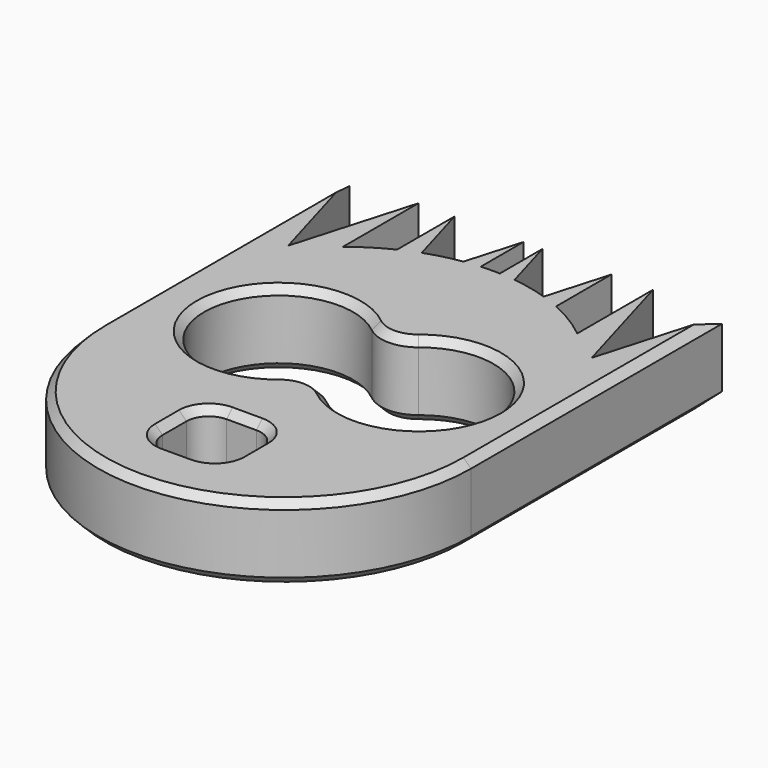
from build123d import *

# Parameters (mm, degrees)
F1_DEPTH = 10
F3_DEPTH = 25
F4_R     = 5
F5_W     = 10
F5_H     = 10
F6_DEPTH = 25
F7_R     = 3
F8_SIZE  = 1


with BuildPart() as f1:
    # F0 (on Top) → F1 (new body)
    with BuildSketch(Plane.XY):
        Polygon((-10.9047358856, 5), (-1.6377953812, 5), (-6.2712656334, 21.0524187982), align=None)
        Polygon((0.893718563, 5), (10.1606590673, 5), (5.5271888152, 21.0524187982), align=None)
        with BuildLine():
            ThreePointArc((-25, -5), (0, -30), (25, -5))
            Line((25, -5), (-25, -5))
        make_face()
        with BuildLine():
            ThreePointArc((7.7540047355, 28.767107745), (8.969264738, 28.3356441964), (10.1606590673, 27.842088506))
            Line((10.1606590673, 27.842088506), (10.1606590673, 37.1048375964))
            Line((10.1606590673, 37.1048375964), (7.7540047355, 28.767107745))
        make_face()
        with BuildLine():
            Line((0.893718563, 37.1048375964), (0.893718563, 29.9840202355))
            ThreePointArc((0.893718563, 29.9840202355), (1.9468556818, 29.9240797815), (2.9965268036, 29.8197668626))
            Line((2.9965268036, 29.8197668626), (0.893718563, 37.1048375964))
        make_face()
        with BuildLine():
            ThreePointArc((-3.7711526138, 29.713931455), (-2.7069683761, 29.8530143486), (-1.6377953812, 29.9462948409))
            Line((-1.6377953812, 29.9462948409), (-1.6377953812, 37.1048375964))
            Line((-1.6377953812, 37.1048375964), (-3.7711526138, 29.713931455))
        make_face()
        with BuildLine():
            Line((-10.9047358856, 37.1048375964), (-10.9047358856, 27.4963716022))
            ThreePointArc((-10.9047358856, 27.4963716022), (-9.6819154679, 28.0490891983), (-8.4311989498, 28.535396412))
            Line((-8.4311989498, 28.535396412), (-10.9047358856, 37.1048375964))
        make_face()
        with BuildLine():
            ThreePointArc((21.1545569723, 18.3223391079), (24.0194080309, 11.9331117001), (25, 5))
            Line((25, 5), (25, 37.1048375964))
            Line((25, 37.1048375964), (20.3665297478, 21.0524187982))
            Line((20.3665297478, 21.0524187982), (21.1545569723, 18.3223391079))
        make_face()
        with BuildLine():
            Line((21.1545569723, 18.3223391079), (25, 5))
            ThreePointArc((25, 5), (24.0194080309, 11.9331117001), (21.1545569723, 18.3223391079))
        make_face()
        with BuildLine():
            ThreePointArc((15.7330594957, 24.4286087743), (18.0294324279, 22.3187634179), (20.0452738513, 19.9394443078))
            Line((20.0452738513, 19.9394443078), (20.3665297478, 21.0524187982))
            Line((20.3665297478, 21.0524187982), (15.7330594957, 37.1048375964))
            Line((15.7330594957, 37.1048375964), (15.7330594957, 24.4286087743))
        make_face()
        with BuildLine():
            Line((2.9965268036, 29.8197668626), (5.5271888152, 21.0524187982))
            Line((5.5271888152, 21.0524187982), (7.7540047355, 28.767107745))
            ThreePointArc((7.7540047355, 28.767107745), (5.4009725881, 29.4096189053), (2.9965268036, 29.8197668626))
        make_face()
        with BuildLine():
            Line((-8.4311989498, 28.535396412), (-6.2712656334, 21.0524187982))
            Line((-6.2712656334, 21.0524187982), (-3.7711526138, 29.713931455))
            ThreePointArc((-3.7711526138, 29.713931455), (-6.1295662271, 29.2369226155), (-8.4311989498, 28.535396412))
        make_face()
        with BuildLine():
            Line((-20.3665297478, 21.0524187982), (-20.0452738513, 19.9394443078))
            ThreePointArc((-20.0452738513, 19.9394443078), (-18.0294324279, 22.3187634179), (-15.7330594957, 24.4286087743))
            Line((-15.7330594957, 24.4286087743), (-15.7330594957, 37.1048375964))
            Line((-15.7330594957, 37.1048375964), (-20.3665297478, 21.0524187982))
        make_face()
        with BuildLine():
            Line((-25, 37.1048375964), (-25, 5))
            ThreePointArc((-25, 5), (-24.0194080309, 11.9331117001), (-21.1545569723, 18.3223391079))
            Line((-21.1545569723, 18.3223391079), (-20.3665297478, 21.0524187982))
            Line((-20.3665297478, 21.0524187982), (-25, 37.1048375964))
        make_face()
        with BuildLine():
            ThreePointArc((-21.1545569723, 18.3223391079), (-24.0194080309, 11.9331117001), (-25, 5))
            Line((-25, 5), (-21.1545569723, 18.3223391079))
        make_face()
        with BuildLine():
            Line((10.1606590673, 5), (15.7330594957, 5))
            Line((15.7330594957, 5), (15.7330594957, 24.4286087743))
            ThreePointArc((15.7330594957, 24.4286087743), (13.0588715525, 26.3182052194), (10.1606590673, 27.842088506))
            Line((10.1606590673, 27.842088506), (10.1606590673, 5))
        make_face()
        with BuildLine():
            Line((-1.6377953812, 5), (0.893718563, 5))
            Line((0.893718563, 5), (0.893718563, 29.9840202355))
            ThreePointArc((0.893718563, 29.9840202355), (-0.3725162805, 29.9972244783), (-1.6377953812, 29.9462948409))
            Line((-1.6377953812, 29.9462948409), (-1.6377953812, 5))
        make_face()
        with BuildLine():
            Line((-15.7330594957, 24.4286087743), (-15.7330594957, 5))
            Line((-15.7330594957, 5), (-10.9047358856, 5))
            Line((-10.9047358856, 5), (-10.9047358856, 27.4963716022))
            ThreePointArc((-10.9047358856, 27.4963716022), (-13.4069320833, 26.1010467066), (-15.7330594957, 24.4286087743))
        make_face()
        with BuildLine():
            ThreePointArc((20.0452738513, 19.9394443078), (20.615777266, 19.1417724391), (21.1545569723, 18.3223391079))
            Line((21.1545569723, 18.3223391079), (20.3665297478, 21.0524187982))
            Line((20.3665297478, 21.0524187982), (20.0452738513, 19.9394443078))
        make_face()
        with BuildLine():
            Line((15.7330594957, 24.4286087743), (15.7330594957, 5))
            Line((15.7330594957, 5), (20.0452738513, 19.9394443078))
            ThreePointArc((20.0452738513, 19.9394443078), (18.0294324279, 22.3187634179), (15.7330594957, 24.4286087743))
        make_face()
        with BuildLine():
            Line((-20.0452738513, 19.9394443078), (-15.7330594957, 5))
            Line((-15.7330594957, 5), (-15.7330594957, 24.4286087743))
            ThreePointArc((-15.7330594957, 24.4286087743), (-18.0294324279, 22.3187634179), (-20.0452738513, 19.9394443078))
        make_face()
        with BuildLine():
            Line((-20.3665297478, 21.0524187982), (-21.1545569723, 18.3223391079))
            ThreePointArc((-21.1545569723, 18.3223391079), (-20.615777266, 19.1417724391), (-20.0452738513, 19.9394443078))
            Line((-20.0452738513, 19.9394443078), (-20.3665297478, 21.0524187982))
        make_face()
        with BuildLine():
            Line((15.7330594957, 5), (25, 5))
            Line((25, 5), (21.1545569723, 18.3223391079))
            ThreePointArc((21.1545569723, 18.3223391079), (20.615777266, 19.1417724391), (20.0452738513, 19.9394443078))
            Line((20.0452738513, 19.9394443078), (15.7330594957, 5))
        make_face()
        with BuildLine():
            Line((5.5271888152, 21.0524187982), (10.1606590673, 5))
            Line((10.1606590673, 5), (10.1606590673, 27.842088506))
            ThreePointArc((10.1606590673, 27.842088506), (8.969264738, 28.3356441964), (7.7540047355, 28.767107745))
            Line((7.7540047355, 28.767107745), (5.5271888152, 21.0524187982))
        make_face()
        with BuildLine():
            Line((0.893718563, 29.9840202355), (0.893718563, 5))
            Line((0.893718563, 5), (5.5271888152, 21.0524187982))
            Line((5.5271888152, 21.0524187982), (2.9965268036, 29.8197668626))
            ThreePointArc((2.9965268036, 29.8197668626), (1.9468556818, 29.9240797815), (0.893718563, 29.9840202355))
        make_face()
        with BuildLine():
            Line((-6.2712656334, 21.0524187982), (-1.6377953812, 5))
            Line((-1.6377953812, 5), (-1.6377953812, 29.9462948409))
            ThreePointArc((-1.6377953812, 29.9462948409), (-2.7069683761, 29.8530143486), (-3.7711526138, 29.713931455))
            Line((-3.7711526138, 29.713931455), (-6.2712656334, 21.0524187982))
        make_face()
        with BuildLine():
            Line((-10.9047358856, 27.4963716022), (-10.9047358856, 5))
            Line((-10.9047358856, 5), (-6.2712656334, 21.0524187982))
            Line((-6.2712656334, 21.0524187982), (-8.4311989498, 28.535396412))
            ThreePointArc((-8.4311989498, 28.535396412), (-9.6819154679, 28.0490891983), (-10.9047358856, 27.4963716022))
        make_face()
        Polygon((25, -5), (25, 5), (15.7330594957, 5), (10.1606590673, 5), (0.893718563, 5), (-1.6377953812, 5), (-10.9047358856, 5), (-15.7330594957, 5), (-25, 5), (-25, -5), align=None)
        with BuildLine():
            Line((-21.1545569723, 18.3223391079), (-25, 5))
            Line((-25, 5), (-15.7330594957, 5))
            Line((-15.7330594957, 5), (-20.0452738513, 19.9394443078))
            ThreePointArc((-20.0452738513, 19.9394443078), (-20.615777266, 19.1417724391), (-21.1545569723, 18.3223391079))
        make_face()
    extrude(amount=F1_DEPTH)

    # F2 (on face) → F3 (cut)
    with BuildSketch(Plane.XY.offset(10)):
        with BuildLine():
            ThreePointArc((0.3781150769, 1.944110059), (0.8106415831, 3.5947742399), (0.9562301539, 5.2949434623))
            ThreePointArc((0.9562301539, 5.2949434623), (0.8106415831, 6.9951126847), (0.3781150769, 8.6457768657))
            ThreePointArc((0.3781150769, 8.6457768657), (-0.2, 5.2949434623), (0.3781150769, 1.944110059))
        make_face()
        with BuildLine():
            ThreePointArc((0.3781150769, 8.6457768657), (0.8106415831, 6.9951126847), (0.9562301539, 5.2949434623))
            ThreePointArc((0.9562301539, 5.2949434623), (0.8106415831, 3.5947742399), (0.3781150769, 1.944110059))
            ThreePointArc((0.3781150769, 1.944110059), (11.5001692224, -4.5594679668), (19.8, 5.2949434623))
            ThreePointArc((19.8, 5.2949434623), (11.5001692224, 15.1493548915), (0.3781150769, 8.6457768657))
        make_face()
        with BuildLine():
            ThreePointArc((0.3781150769, 1.944110059), (-0.2, 5.2949434623), (0.3781150769, 8.6457768657))
            ThreePointArc((0.3781150769, 8.6457768657), (-19.0437698461, 5.2949434623), (0.3781150769, 1.944110059))
        make_face()
    extrude(amount=-F3_DEPTH, mode=Mode.SUBTRACT)

    # F4
    f4_edges = [f1.edges().sort_by_distance(p)[0] for p in [
        (0.378115, 8.645777, 5),
        (0.378115, 1.94411, 5),
    ]]
    fillet(f4_edges, radius=F4_R)

    # F5 (on face) → F6 (cut)
    with BuildSketch(Plane.XY.offset(10)):
        with Locations((0, -17.2223318368)):
            Rectangle(F5_W, F5_H)
    extrude(amount=-F6_DEPTH, mode=Mode.SUBTRACT)

    # F7
    f7_edges = [f1.edges().sort_by_distance(p)[0] for p in [
        (-5, -22.222332, 5),
        (-5, -12.222332, 5),
        (5, -12.222332, 5),
        (5, -22.222332, 5),
    ]]
    fillet(f7_edges, radius=F7_R)

    # F8
    f8_edges = [f1.edges().sort_by_distance(p)[0] for p in [
        (0, -30, 10),
        (0, -30, 0),
        (-19.04377, 5.294943, 10),
        (0, -12.222332, 10),
        (0, -22.222332, 0),
        (0.378115, -1.376735, 0),
    ]]
    chamfer(f8_edges, length=F8_SIZE)


solid = f1.part
